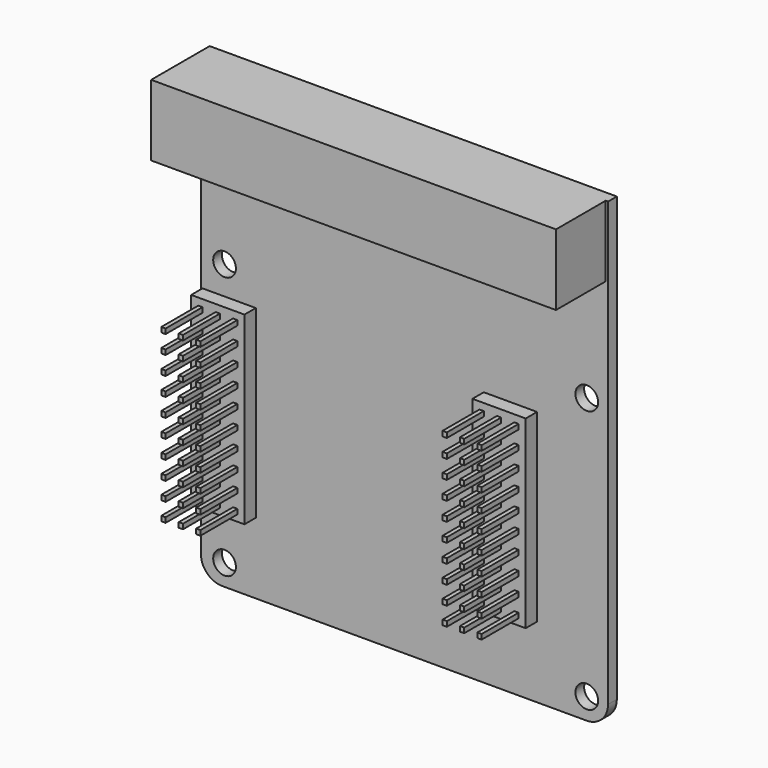
from build123d import *

# Parameters (mm, degrees)
BOX212_W                  = 2.5
BOX212_H                  = 2.5
BOX212_DEPTH              = 26
BOX213_W                  = 2.5
BOX213_H                  = 2.5
BOX213_DEPTH              = 26
BOX214_W                  = 0.6
BOX214_H                  = 0.7
BOX214_DEPTH              = 11
ARRAY004_X_COUNT          = 3
ARRAY004_X_PITCH          = 2.45
ARRAY004_Z_COUNT          = 10
ARRAY004_Z_PITCH          = 2.6
BOX211_W                  = 2.5
BOX211_H                  = 2.5
BOX211_DEPTH              = 26
FUSION137_PLACEMENT_ANGLE = 180
BOX208_W                  = 2.5
BOX208_H                  = 2.5
BOX208_DEPTH              = 26
BOX209_W                  = 2.5
BOX209_H                  = 2.5
BOX209_DEPTH              = 26
BOX210_W                  = 0.6
BOX210_H                  = 0.7
BOX210_DEPTH              = 11
ARRAY003_X_COUNT          = 3
ARRAY003_X_PITCH          = 2.45
ARRAY003_Z_COUNT          = 10
ARRAY003_Z_PITCH          = 2.6
BOX207_W                  = 2.5
BOX207_H                  = 2.5
BOX207_DEPTH              = 26
FUSION135_PLACEMENT_ANGLE = 180
BOX202_W                  = 57
BOX202_H                  = 8.8
BOX202_DEPTH              = 10
CYLINDER189_R             = 1.6
CYLINDER189_DEPTH         = 6
ARRAY001_X_COUNT          = 2
ARRAY001_X_PITCH          = 51
ARRAY001_Z_COUNT          = 2
ARRAY001_Z_PITCH          = 37
BOX103_W                  = 1.54
BOX103_H                  = 57.33
BOX103_DEPTH              = 65.33
FILLET160_R               = 3


with BuildPart() as cubo199:
    # Box212 → Box212 (new body)
    with BuildSketch(Plane(origin=(-24.5, -30, 13), x_dir=(1, 0, 0), z_dir=(0, 0, 1))):
        with Locations((1.25, 1.25)):
            Rectangle(BOX212_W, BOX212_H)
    extrude(amount=BOX212_DEPTH)


with BuildPart() as cubo200:
    # Box213 → Box213 (new body)
    with BuildSketch(Plane(origin=(-22, -30, 13), x_dir=(1, 0, 0), z_dir=(0, 0, 1))):
        with Locations((1.25, 1.25)):
            Rectangle(BOX213_W, BOX213_H)
    extrude(amount=BOX213_DEPTH)


with BuildPart() as array004:
    # Box214 → Box214 (new body)
    with BuildSketch(Plane(origin=(-26, -25.5, 14), x_dir=(1, 0, 0), z_dir=(0, -1, 0))):
        with Locations((0.3, 0.35)):
            Rectangle(BOX214_W, BOX214_H)
    extrude(amount=BOX214_DEPTH)

    # Array004 X: Array004 ×3


with BuildPart() as array004_1:
    add(array004.part)
    with Locations(*[(i * ARRAY004_X_PITCH, 0, 0) for i in range(1, ARRAY004_X_COUNT)]):
        add(array004.part)

    # Array004 Z: Array004 ×10


with BuildPart() as array004_2:
    add(array004_1.part)
    with Locations(*[(0, 0, i * ARRAY004_Z_PITCH) for i in range(1, ARRAY004_Z_COUNT)]):
        add(array004_1.part)


with BuildPart() as conector_pines002:
    # Box211 → Box211 (new body)
    with BuildSketch(Plane(origin=(-27, -30, 13), x_dir=(1, 0, 0), z_dir=(0, 0, 1))):
        with Locations((1.25, 1.25)):
            Rectangle(BOX211_W, BOX211_H)
    extrude(amount=BOX211_DEPTH)

    # Fusion137: union Cubo199, Cubo200, Array004
    add(cubo199.part)
    add(cubo200.part)
    add(array004_2.part)


with BuildPart() as conector_pines002_1:
    # Fusion137 placement: moved
    add(conector_pines002.part.moved(Location((-46.6, 0, 52))).rotate(Axis((-46.6, 0, 52), (0, 1, 0)), FUSION137_PLACEMENT_ANGLE))


with BuildPart() as cubo195:
    # Box208 → Box208 (new body)
    with BuildSketch(Plane(origin=(-24.5, -30, 13), x_dir=(1, 0, 0), z_dir=(0, 0, 1))):
        with Locations((1.25, 1.25)):
            Rectangle(BOX208_W, BOX208_H)
    extrude(amount=BOX208_DEPTH)


with BuildPart() as cubo196:
    # Box209 → Box209 (new body)
    with BuildSketch(Plane(origin=(-22, -30, 13), x_dir=(1, 0, 0), z_dir=(0, 0, 1))):
        with Locations((1.25, 1.25)):
            Rectangle(BOX209_W, BOX209_H)
    extrude(amount=BOX209_DEPTH)


with BuildPart() as array003:
    # Box210 → Box210 (new body)
    with BuildSketch(Plane(origin=(-26, -25.5, 14), x_dir=(1, 0, 0), z_dir=(0, -1, 0))):
        with Locations((0.3, 0.35)):
            Rectangle(BOX210_W, BOX210_H)
    extrude(amount=BOX210_DEPTH)

    # Array003 X: Array003 ×3


with BuildPart() as array003_1:
    add(array003.part)
    with Locations(*[(i * ARRAY003_X_PITCH, 0, 0) for i in range(1, ARRAY003_X_COUNT)]):
        add(array003.part)

    # Array003 Z: Array003 ×10


with BuildPart() as array003_2:
    add(array003_1.part)
    with Locations(*[(0, 0, i * ARRAY003_Z_PITCH) for i in range(1, ARRAY003_Z_COUNT)]):
        add(array003_1.part)


with BuildPart() as conector_pines001:
    # Box207 → Box207 (new body)
    with BuildSketch(Plane(origin=(-27, -30, 13), x_dir=(1, 0, 0), z_dir=(0, 0, 1))):
        with Locations((1.25, 1.25)):
            Rectangle(BOX207_W, BOX207_H)
    extrude(amount=BOX207_DEPTH)

    # Fusion135: union Cubo195, Cubo196, Array003
    add(cubo195.part)
    add(cubo196.part)
    add(array003_2.part)


with BuildPart() as conector_pines001_1:
    # Fusion135 placement: moved
    add(conector_pines001.part.moved(Location((-7, 0, 52))).rotate(Axis((-7, 0, 52), (0, 1, 0)), FUSION135_PLACEMENT_ANGLE))


with BuildPart() as cubo189:
    # Box202 → Box202 (new body)
    with BuildSketch(Plane(origin=(-27.33, -36.75, 58.33), x_dir=(1, 0, 0), z_dir=(0, 0, 1))):
        with Locations((28.5, 4.4)):
            Rectangle(BOX202_W, BOX202_H)
    extrude(amount=BOX202_DEPTH)


with BuildPart() as array001:
    # Cylinder189 → Cylinder189 (new body)
    with BuildSketch(Plane(origin=(-24, -24, 6), x_dir=(1, 0, 0), z_dir=(0, -1, 0))):
        Circle(CYLINDER189_R)
    extrude(amount=CYLINDER189_DEPTH)

    # Array001 X: Array001 ×2


with BuildPart() as array001_1:
    add(array001.part)
    with Locations(*[(i * ARRAY001_X_PITCH, 0, 0) for i in range(1, ARRAY001_X_COUNT)]):
        add(array001.part)

    # Array001 Z: Array001 ×2


with BuildPart() as array001_2:
    add(array001_1.part)
    with Locations(*[(0, 0, i * ARRAY001_Z_PITCH) for i in range(1, ARRAY001_Z_COUNT)]):
        add(array001_1.part)


with BuildPart() as obj1:
    # Box103 → Box103 (new body)
    with BuildSketch(Plane(origin=(30, -28, 3), x_dir=(0, 1, 0), z_dir=(0, 0, 1))):
        with Locations((0.77, 28.665)):
            Rectangle(BOX103_W, BOX103_H)
    extrude(amount=BOX103_DEPTH)

    # Fillet160
    fillet160_edges = [obj1.edges().sort_by_distance(p)[0] for p in [
        (30, -27.23, 3),
        (-27.33, -27.23, 3),
    ]]
    fillet(fillet160_edges, radius=FILLET160_R)

    # Cut258: cut Array001
    add(array001_2.part, mode=Mode.SUBTRACT)

    # Fusion136: union Cubo189
    add(cubo189.part)

    # Fusion: union Conector_Pines002, Conector_Pines001
    add(conector_pines002_1.part)
    add(conector_pines001_1.part)


with BuildPart() as obj1_1:
    # Fusion placement: moved
    add(obj1.part.moved(Location((-1, 10, 0))))


solid = obj1_1.part
